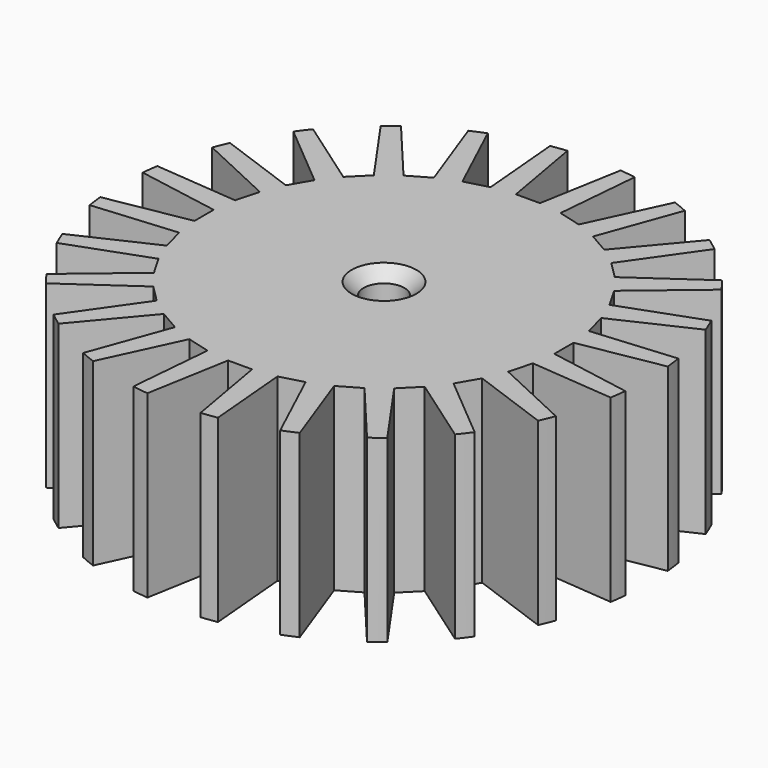
from build123d import *

# Parameters (mm, degrees)
SKETCH_R           = 22
PAD_DEPTH          = 15
SKETCH001_R        = 1.7
POCKET_DEPTH       = 15.001
POCKET001_DEPTH    = 143.016624
POLARPATTERN_COUNT = 24
CHAMFER_SIZE       = 1


with BuildPart() as part:
    # Sketch → Pad (new body)
    with BuildSketch(Plane.XY):
        Circle(SKETCH_R)
    extrude(amount=PAD_DEPTH)

    # Sketch001 (on Face3 of Pad) → Pocket (cut, through all)
    with BuildSketch(Plane.XY.offset(15)):
        Circle(SKETCH001_R)
    extrude(amount=-POCKET_DEPTH, mode=Mode.SUBTRACT)

    # Sketch002 (on Face3 of Pocket) → Pocket001 (cut, through all)
    with BuildSketch(Plane.XY.offset(15)):
        Polygon((-1, 15), (1, 15), (4.820269, 36.665769), (-4.820254, 36.665772), align=None)
    pocket001 = extrude(amount=-POCKET001_DEPTH, mode=Mode.SUBTRACT)

    # PolarPattern: Pocket001 ×24 about axis
    polarpattern_axis = Axis((0, 0, 0), (0, 0, 1))
    for i in range(1, POLARPATTERN_COUNT):
        add(pocket001.rotate(polarpattern_axis, i * 360 / POLARPATTERN_COUNT), mode=Mode.SUBTRACT)

    # Chamfer
    chamfer_edges = [part.edges().sort_by_distance(p)[0] for p in [
        (-1.7, 0, 15),
        (-1.7, 0, 0),
    ]]
    chamfer(chamfer_edges, length=CHAMFER_SIZE)


solid = part.part
